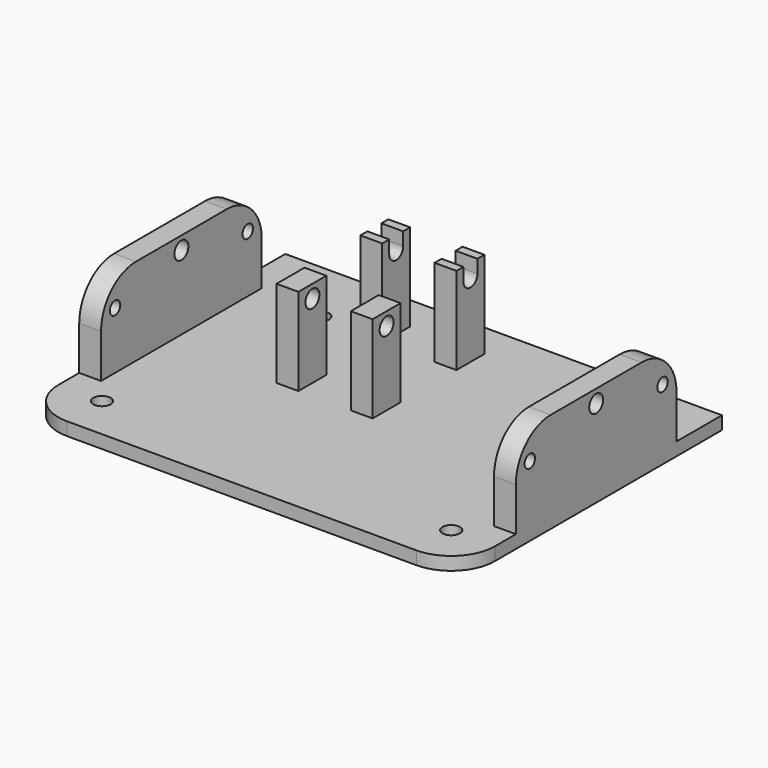
from build123d import *

# Parameters (mm, degrees)
F1_DEPTH  = 3
F2_R      = 1.5
F2_R_2    = 2
F3_DEPTH  = 5
F4_R      = 1.5
F4_R_2    = 2
F5_DEPTH  = 5
F6_R      = 2
F7_DEPTH  = 25.4
F8_W      = 5
F8_H      = 8
F9_DEPTH  = 20
F10_R     = 2
F11_DEPTH = 25.4
F13_DEPTH = 25.4


with BuildPart() as f1:
    # F0 (on Top) → F1 (new body)
    with BuildSketch(Plane.XY):
        with BuildLine():
            Line((50, -27.5), (50, 37.5))
            Line((50, 37.5), (-50, 37.5))
            Line((-50, 37.5), (-50, -27.5))
            ThreePointArc((-50, -27.5), (-47.071068, -34.571068), (-40, -37.5))
            Line((-40, -37.5), (40, -37.5))
            ThreePointArc((40, -37.5), (47.071068, -34.571068), (50, -27.5))
        make_face()
    extrude(amount=F1_DEPTH)

    # F2 (on face) → F3 (join)
    with BuildSketch(Plane.YZ.offset(50)):
        with BuildLine():
            Line((-21.5, 13), (-21.5, 3))
            Line((-21.5, 3), (24.5, 3))
            Line((24.5, 3), (24.5, 13))
            ThreePointArc((24.5, 13), (21.571068, 20.071068), (14.5, 23))
            Line((14.5, 23), (-11.5, 23))
            ThreePointArc((-11.5, 23), (-18.571068, 20.071068), (-21.5, 13))
        make_face()
        with Locations((-17.5, 16.1)):
            Circle(F2_R, mode=Mode.SUBTRACT)
        with Locations((20.5, 16.1)):
            Circle(F2_R, mode=Mode.SUBTRACT)
        with Locations((1.5, 20)):
            Circle(F2_R_2, mode=Mode.SUBTRACT)
    extrude(amount=-F3_DEPTH)

    # F4 (on face) → F5 (join)
    with BuildSketch(Plane(origin=(-50, 0, 0), x_dir=(0, -1, 0), z_dir=(-1, 0, 0))):
        with BuildLine():
            ThreePointArc((21.5, 13), (18.571068, 20.071068), (11.5, 23))
            Line((11.5, 23), (-14.5, 23))
            ThreePointArc((-14.5, 23), (-21.571068, 20.071068), (-24.5, 13))
            Line((-24.5, 13), (-24.5, 3))
            Line((-24.5, 3), (21.5, 3))
            Line((21.5, 3), (21.5, 13))
        make_face()
        with Locations((-20.5, 16.1)):
            Circle(F4_R, mode=Mode.SUBTRACT)
        with Locations((17.5, 16.1)):
            Circle(F4_R, mode=Mode.SUBTRACT)
        with Locations((-1.5, 20)):
            Circle(F4_R_2, mode=Mode.SUBTRACT)
    extrude(amount=-F5_DEPTH)

    # F6 (on face) → F7 (cut)
    with BuildSketch(Plane.XY.offset(3)):
        with Locations((-30, 22.5)):
            Circle(F6_R)
        with Locations((-40, -27.5)):
            Circle(F6_R)
        with Locations((40, -27.5)):
            Circle(F6_R)
        with Locations((36, 22.5)):
            Circle(F6_R)
    extrude(amount=-F7_DEPTH, mode=Mode.SUBTRACT)

    # F8 (on face) → F9 (join)
    with BuildSketch(Plane.XY.offset(3)):
        with Locations((-17.5, 25.5)):
            Rectangle(F8_W, F8_H)
        with Locations((-0.5, 25.5)):
            Rectangle(F8_W, F8_H)
        with Locations((-17.5, 1.5)):
            Rectangle(F8_W, F8_H)
        with Locations((-0.5, 1.5)):
            Rectangle(F8_W, F8_H)
    extrude(amount=F9_DEPTH)

    # F10 (on face) → F11 (cut)
    with BuildSketch(Plane(origin=(-20, 0, 0), x_dir=(0, -1, 0), z_dir=(-1, 0, 0))):
        with Locations((-1.5, 20)):
            Circle(F10_R)
    extrude(amount=-F11_DEPTH, mode=Mode.SUBTRACT)

    # F12 (on face) → F13 (cut)
    with BuildSketch(Plane(origin=(-20, 0, 0), x_dir=(0, -1, 0), z_dir=(-1, 0, 0))):
        with BuildLine():
            Line((-27.5, 23), (-27.5, 20))
            ThreePointArc((-27.5, 20), (-25.5, 18), (-23.5, 20))
            Line((-23.5, 20), (-23.5, 23))
            Line((-23.5, 23), (-27.5, 23))
        make_face()
    extrude(amount=-F13_DEPTH, mode=Mode.SUBTRACT)


solid = f1.part
